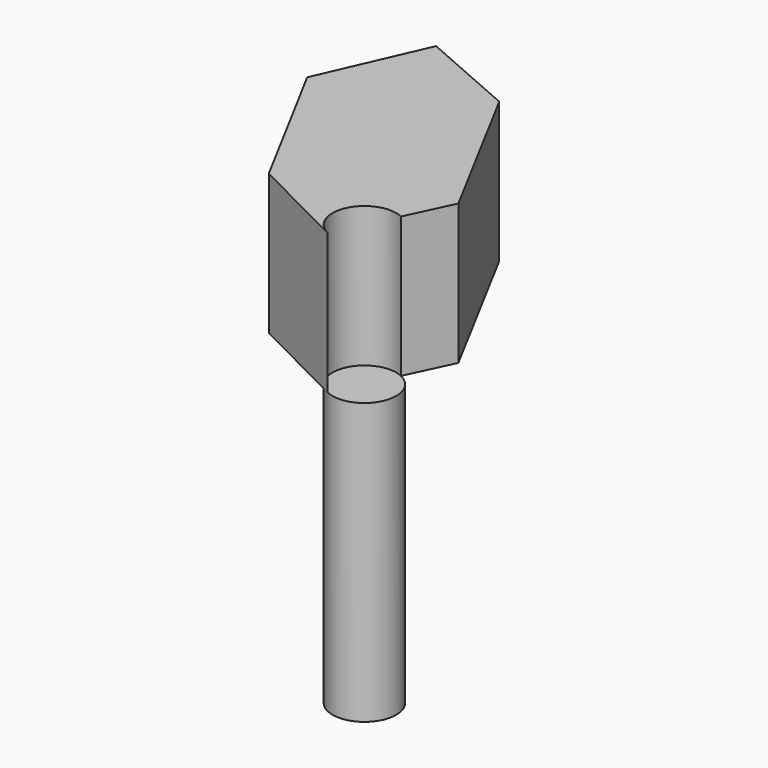
from build123d import *

# Parameters (mm, degrees)
F0_R     = 5.759218
F1_DEPTH = 50.8
F3_DEPTH = 25.4


with BuildPart() as f1:
    # F0 (on Top) → F1 (new body)
    with BuildSketch(Plane.XY):
        with Locations((-48.725516, -41.329332)):
            Circle(F0_R)
    extrude(amount=F1_DEPTH)


with BuildPart() as f3:
    # F2 (on face) → F3 (new body)
    with BuildSketch(Plane.XY.offset(50.8)):
        with BuildLine():
            ThreePointArc((-51.315211, -46.473461), (-53.904143, -38.809329), (-46.275665, -36.117151))
            Line((-46.275665, -36.117151), (-42.432722, -27.941097))
            Line((-42.432722, -27.941097), (-57.386074, 0))
            Line((-57.386074, 0), (-74.97631, 7.710108))
            Line((-74.97631, 7.710108), (-83.232527, -11.126051))
            Line((-83.232527, -11.126051), (-69.059864, -37.540317))
            Line((-69.059864, -37.540317), (-51.315211, -46.473461))
        make_face()
    extrude(amount=F3_DEPTH)


solid = Compound([f1.part, f3.part])
